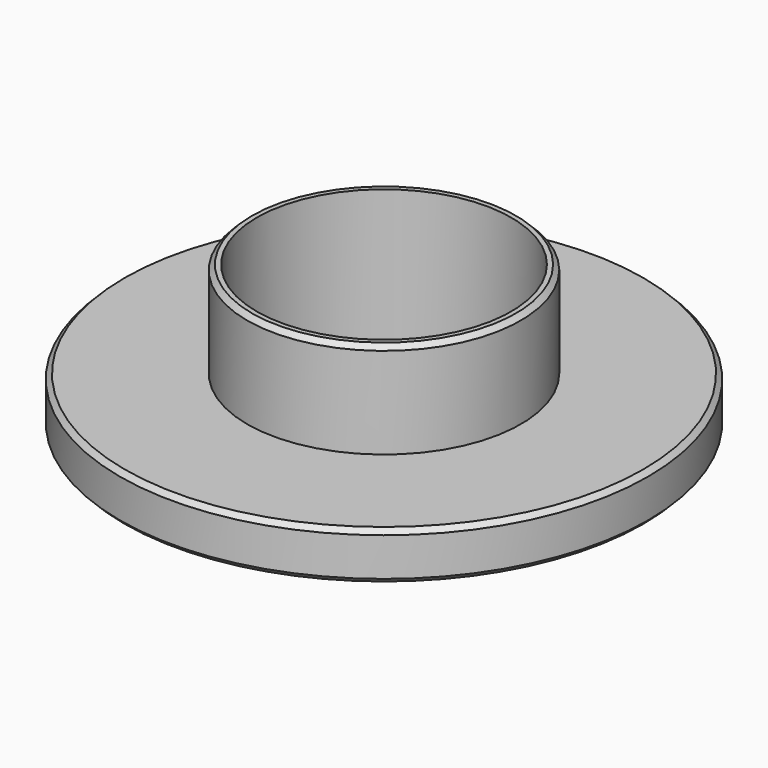
from build123d import *

# Parameters (mm, degrees)
F2_SIZE = 1
F3_SIZE = 1


with BuildPart() as f1:
    # F0 (on Front) → F1 (revolve)
    with BuildSketch(Plane.XZ):
        Polygon((-28.5, 10), (-55, 10), (-55, 0), (-26.5, 0), (-26.5, 30), (-28.5, 30), align=None)
    revolve(axis=Axis((0, 0, 60.018875), (0, 0, -1)))

    # F2
    f2_edges = [f1.edges().sort_by_distance(p)[0] for p in [
        (55, 0, 10),
    ]]
    chamfer(f2_edges, length=F2_SIZE)

    # F3
    f3_edges = [f1.edges().sort_by_distance(p)[0] for p in [
        (28.5, 0, 30),
        (55, 0, 0),
    ]]
    chamfer(f3_edges, length=F3_SIZE)


solid = f1.part
